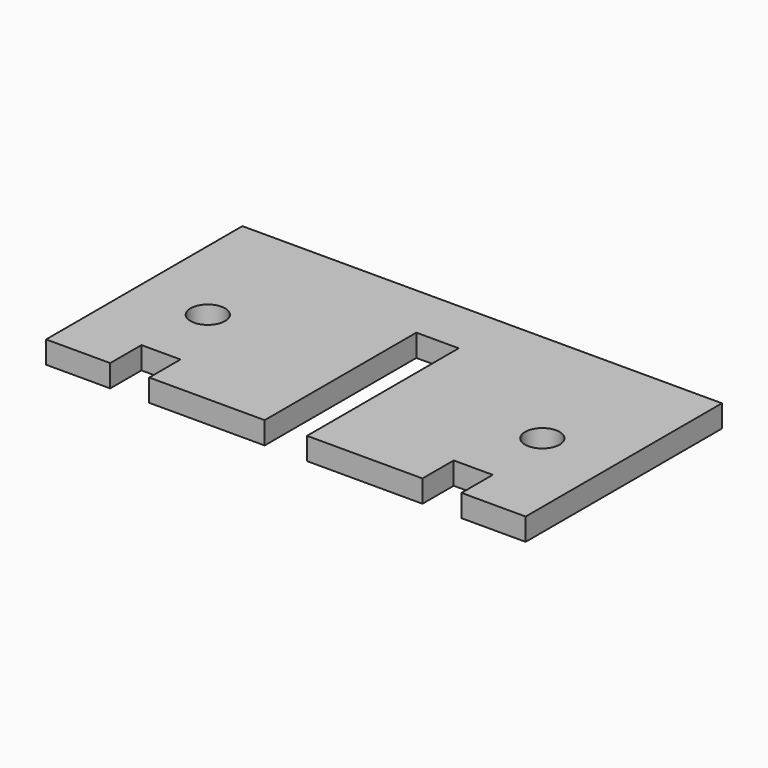
from build123d import *

# Parameters (mm, degrees)
SKETCH_R  = 1.55
PAD_DEPTH = 1


with BuildPart() as part:
    # Sketch → Pad (new body, symmetric)
    with BuildSketch(Plane.XY):
        Polygon((21.5, -10), (21.5, 12), (-21.5, 12), (-21.5, -10), (-15.75, -10), (-15.75, -6.5), (-12.25, -6.5), (-12.25, -10), (-1.9, -10), (-1.9, 7), (1.9, 7), (1.9, -10), (12.25, -10), (12.25, -6.5), (15.75, -6.5), (15.75, -10), align=None)
        with Locations((15, 0)):
            Circle(SKETCH_R, mode=Mode.SUBTRACT)
        with Locations((-15, 0)):
            Circle(SKETCH_R, mode=Mode.SUBTRACT)
    extrude(amount=PAD_DEPTH, both=True)


solid = part.part
